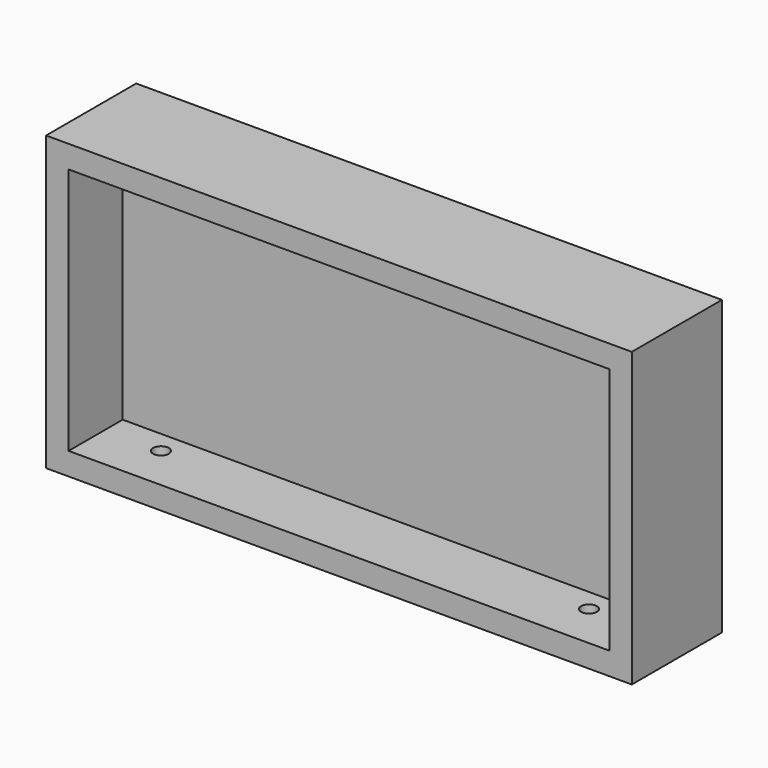
from build123d import *

# Parameters (mm, degrees)
F0_W     = 260
F0_H     = 130
F1_DEPTH = 50
F2_R     = 50
F3_DEPTH = 10
F4_W     = 240
F4_H     = 110
F5_DEPTH = 30
F6_R     = 3.5
F7_DEPTH = 50


with BuildPart() as f1:
    # F0 (on Front) → F1 (new body)
    with BuildSketch(Plane.XZ):
        Rectangle(F0_W, F0_H)
    extrude(amount=F1_DEPTH)

    # F2 (on face) → F3 (cut)
    with BuildSketch(Plane(origin=(0, 0, 0), x_dir=(-1, 0, 0), z_dir=(0, 1, 0))):
        with Locations((60, 0)):
            Circle(F2_R)
        with Locations((-60, 0)):
            Circle(F2_R)
    extrude(amount=-F3_DEPTH, mode=Mode.SUBTRACT)

    # F4 (on face) → F5 (cut)
    with BuildSketch(Plane.XZ.offset(50)):
        Rectangle(F4_W, F4_H)
    extrude(amount=-F5_DEPTH, mode=Mode.SUBTRACT)

    # F6 (on face) → F7 (cut)
    with BuildSketch(Plane(origin=(0, 0, -65), x_dir=(1, 0, 0), z_dir=(0, 0, -1))):
        with Locations((95, 30)):
            Circle(F6_R)
        with Locations((-95, 30)):
            Circle(F6_R)
    extrude(amount=-F7_DEPTH, mode=Mode.SUBTRACT)


solid = f1.part
